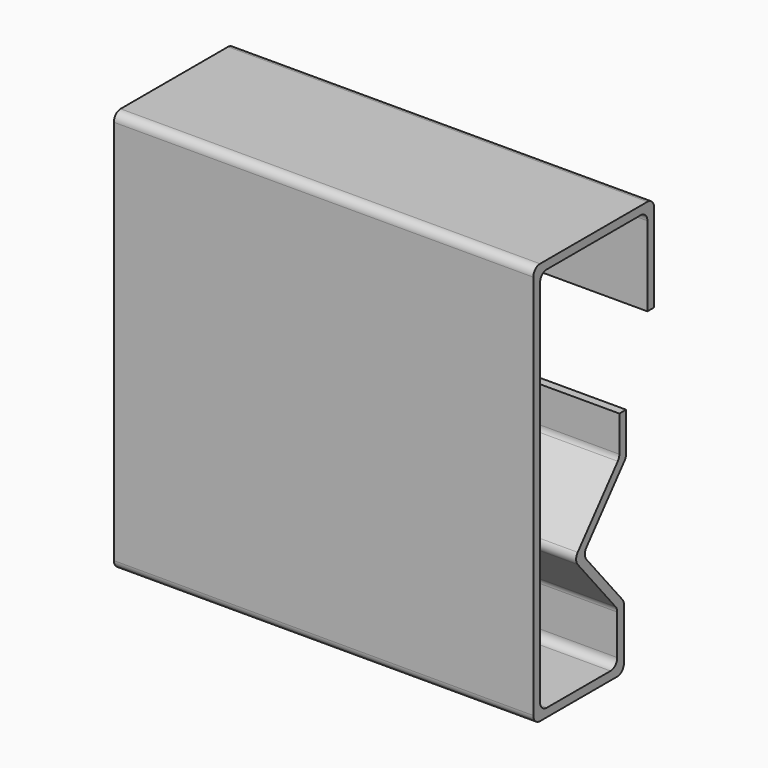
from build123d import *

# Parameters (mm, degrees)
F1_DEPTH = 100
F2_R     = 2


with BuildPart() as f1:
    # F0 (on Right) → F1 (new body)
    with BuildSketch(Plane.YZ):
        Polygon((34, -23), (36, -23), (36, 0), (0, 0), (0, -96), (27, -96), (27, -81), (14.755062, -66.407052), (27.642788, -51.048059), (27.642788, -41.048059), (25.642788, -41.048059), (25.642788, -50.320118), (12.144248, -66.407052), (25, -81.72794), (25, -94), (2, -94), (2, -2), (34, -2), align=None)
    extrude(amount=F1_DEPTH)

    # F2
    f2_edges = [f1.edges().sort_by_distance(p)[0] for p in [
        (50, 36, 0),
        (50, 0, 0),
        (50, 34, -2),
        (50, 2, -2),
        (50, 0, -96),
        (50, 27, -96),
        (50, 27, -81),
        (50, 14.755062, -66.407052),
        (50, 27.642788, -51.048059),
        (50, 2, -94),
        (50, 25, -94),
        (50, 25, -81.72794),
        (50, 12.144248, -66.407052),
        (50, 25.642788, -50.320118),
    ]]
    fillet(f2_edges, radius=F2_R)


solid = f1.part
